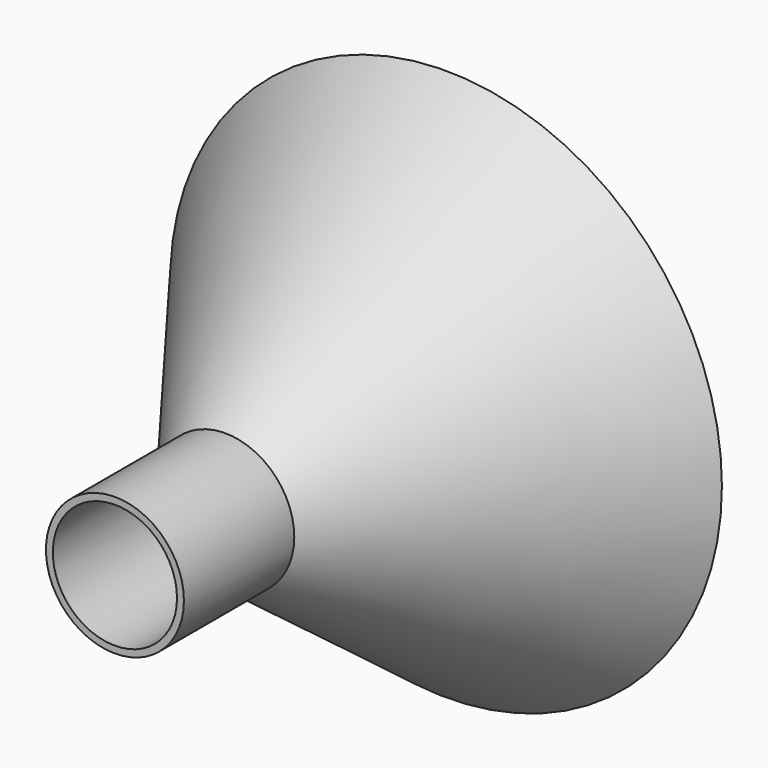
from build123d import *

# Parameters (mm, degrees)
F2_R      = 12.7
F3_DEPTH  = 25.4
F3_FACE_R = 12.7
F0_R      = 50.8
F5_T      = -2.54
F6_R      = 11.43
F7_DEPTH  = 25.4


with BuildPart() as f3:
    # F2 (on offset) → F3 (new body)
    with BuildSketch(Plane.XZ.offset(50.8)):
        Circle(F2_R)
    extrude(amount=F3_DEPTH)

    # F3_face (on face) → F4 section 0
    with BuildSketch(Plane(origin=(0, -50.8, 0), x_dir=(1, 0, 0), z_dir=(0, 1, 0))):
        Circle(F3_FACE_R)
    # F0 (on Front) → F4 section 1
    with BuildSketch(Plane.XZ):
        Circle(F0_R)
    loft()

    # F5
    f5_openings = [f3.faces().sort_by_distance(p)[0] for p in [
        (0, 0, 0),
    ]]
    offset(amount=F5_T, openings=f5_openings, kind=Kind.INTERSECTION)

    # F6 (on face) → F7 (cut)
    with BuildSketch(Plane.XZ.offset(76.2)):
        Circle(F6_R)
    extrude(amount=-F7_DEPTH, mode=Mode.SUBTRACT)


solid = f3.part
